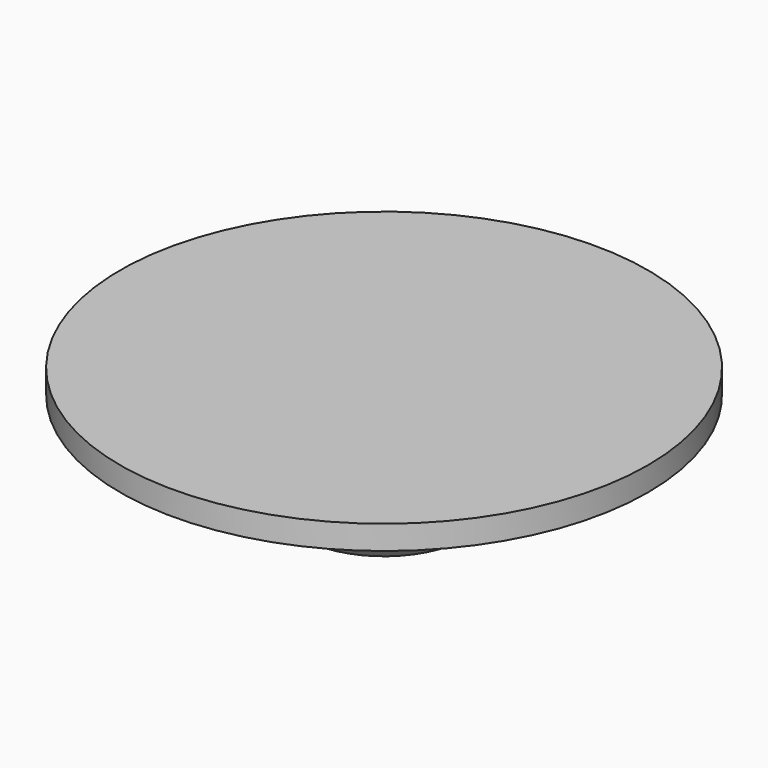
from build123d import *

# Parameters (mm, degrees)
F0_R     = 4
F1_DEPTH = 4.1
F0_R_2   = 6.5
F2_DEPTH = 0.5
F0_R_3   = 11
F3_DEPTH = 1
F4_SIZE  = 0.5


with BuildPart() as f1:
    # F0 (on Top) → F1 (new body)
    with BuildSketch(Plane.XY):
        Circle(F0_R)
    extrude(amount=-F1_DEPTH)

    # F4
    f4_edges = [f1.edges().sort_by_distance(p)[0] for p in [
        (-4, 0, -4.1),
    ]]
    chamfer(f4_edges, length=F4_SIZE)


with BuildPart() as f2:
    # F0 (on Top) → F2 (new body)
    with BuildSketch(Plane.XY):
        Circle(F0_R_2)
        Circle(F0_R, mode=Mode.SUBTRACT)
    extrude(amount=-F2_DEPTH)


with BuildPart() as f3:
    # F0 (on Top) → F3 (new body)
    with BuildSketch(Plane.XY):
        Circle(F0_R_3)
        Circle(F0_R_2, mode=Mode.SUBTRACT)
        Circle(F0_R_2)
        Circle(F0_R, mode=Mode.SUBTRACT)
        Circle(F0_R)
    extrude(amount=F3_DEPTH)


solid = Compound([f1.part, f2.part, f3.part])
